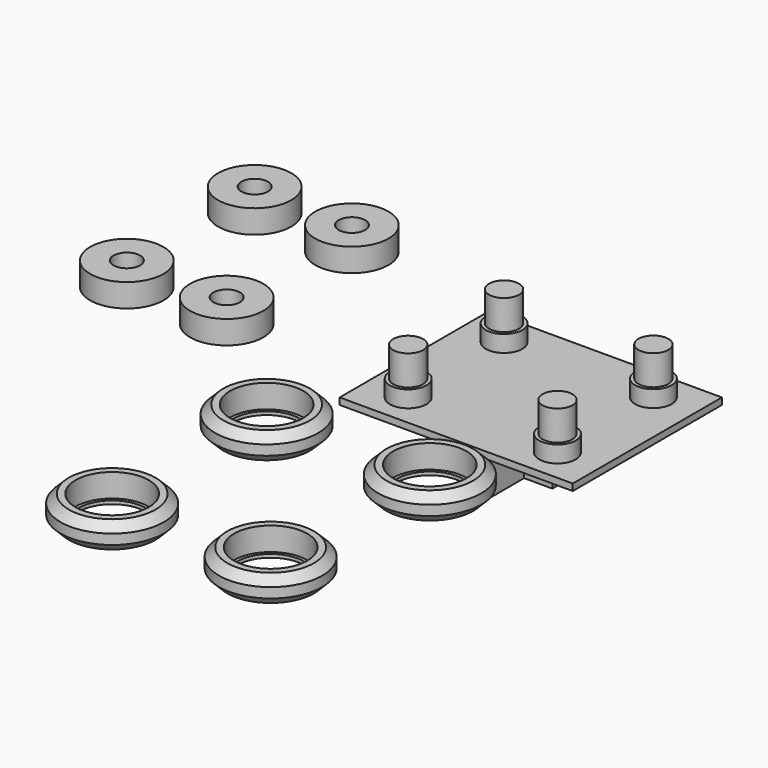
from build123d import *

# Parameters (mm, degrees)
F0_W      = 1
F0_H      = 1
F2_R      = 11
F2_R_2    = 4
F3_DEPTH  = 7
F4_W      = 70
F4_H      = 56
F5_DEPTH  = 2
F6_R      = 4.5
F7_DEPTH  = 14
F6_R_2    = 5.5
F8_DEPTH  = 5
F15_W     = 8.5
F15_H     = 15
F15_W_2   = 8
F15_H_2   = 12.5
F16_DEPTH = 15
F17_R     = 2.5
F18_DEPTH = 30
F19_DEPTH = 35
F20_DEPTH = 10
F21_W     = 3
F21_H     = 7
F21_H_2   = 8
F22_DEPTH = 7.5
F23_W     = 3
F23_H     = 5


with BuildPart() as f1:
    # F0 (on Right) → F1 (revolve)
    with BuildSketch(Plane.YZ):
        Polygon((0, 1), (0, 0), (2.0053988579, 0), (4.5, 2.4946011421), (4.5, 5.5), (2, 8), (0, 8), align=None)
        with Locations((-0.5, 0.5)):
            Rectangle(F0_W, F0_H)
    revolve(axis=Axis((0, -11, 2.9925003098), (0, 0, 1)))


with BuildPart() as f3:
    # F2 (on Top) → F3 (new body)
    with BuildSketch(Plane.XY):
        with Locations((-42.5073839724, 27.137408033)):
            Circle(F2_R)
        with Locations((-42.5073839724, 27.137408033)):
            Circle(F2_R_2, mode=Mode.SUBTRACT)
    extrude(amount=F3_DEPTH)


with BuildPart() as f5:
    # F4 (on Top) → F5 (new body)
    with BuildSketch(Plane.XY):
        with Locations((38.9257686788, 39.4921260625)):
            Rectangle(F4_W, F4_H)
    extrude(amount=F5_DEPTH)

    # F6 (on face) → F7 (join)
    with BuildSketch(Plane.XY.offset(2)):
        with Locations((61.3482686788, 21.4921260625)):
            Circle(F6_R)
        with Locations((16.5032686788, 21.4921260625)):
            Circle(F6_R)
        with Locations((16.5032686788, 57.4921260625)):
            Circle(F6_R)
        with Locations((61.3482686788, 57.4921260625)):
            Circle(F6_R)
    extrude(amount=F7_DEPTH)

    # F6 (on face) → F8 (join)
    with BuildSketch(Plane.XY.offset(2)):
        with Locations((61.3482686788, 21.4921260625)):
            Circle(F6_R_2)
        with Locations((61.3482686788, 21.4921260625)):
            Circle(F6_R, mode=Mode.SUBTRACT)
        with Locations((16.5032686788, 21.4921260625)):
            Circle(F6_R_2)
        with Locations((16.5032686788, 21.4921260625)):
            Circle(F6_R, mode=Mode.SUBTRACT)
        with Locations((61.3482686788, 57.4921260625)):
            Circle(F6_R_2)
        with Locations((61.3482686788, 57.4921260625)):
            Circle(F6_R, mode=Mode.SUBTRACT)
        with Locations((16.5032686788, 57.4921260625)):
            Circle(F6_R_2)
        with Locations((16.5032686788, 57.4921260625)):
            Circle(F6_R, mode=Mode.SUBTRACT)
    extrude(amount=F8_DEPTH)

    # F15 (on face) → F16 (join)
    with BuildSketch(Plane(origin=(0, 0, 0), x_dir=(1, 0, 0), z_dir=(0, 0, -1))):
        with Locations((30.6757686788, -39.4921260625)):
            Rectangle(F15_W, F15_H)
        with Locations((38.9257686788, -39.4921260625)):
            Rectangle(F15_W_2, F15_H)
        with Locations((47.1757686788, -39.4921260625)):
            Rectangle(F15_W, F15_H)
        with Locations((38.9257686788, -25.7421260625)):
            Rectangle(F15_W_2, F15_H_2)
        with Locations((38.9257686788, -53.2421260625)):
            Rectangle(F15_W_2, F15_H_2)
    extrude(amount=F16_DEPTH)

    # F17 (on face) → F18 (cut)
    with BuildSketch(Plane(origin=(26.4257686788, 0, 0), x_dir=(0, -1, 0), z_dir=(-1, 0, 0))):
        with Locations((-39.4921260625, -7.5)):
            Circle(F17_R)
    extrude(amount=-F18_DEPTH, mode=Mode.SUBTRACT)


with BuildPart() as f9_1:
    # F9: copy of F3
    add(f3.part.moved(Location((0, 47, 0))))


with BuildPart() as f10_1:
    # F10: copy of F3
    add(f3.part.moved(Location((-30, 0, 0))))


with BuildPart() as f11_1:
    # F11: copy of F10_1
    add(f10_1.part.moved(Location((0, 48, 0))))


with BuildPart() as f12_1:
    # F12: copy of F1
    add(f1.part.moved(Location((49, 0, 0))))


with BuildPart() as f13_1:
    # F13: copy of F1
    add(f1.part.moved(Location((46, -56, 0))))


with BuildPart() as f14_1:
    # F14: copy of F1
    add(f1.part.moved(Location((0, -58, 0))))


with BuildPart() as f19:
    # F17 (on face) → F19 (new body)
    with BuildSketch(Plane(origin=(26.4257686788, 0, 0), x_dir=(0, -1, 0), z_dir=(-1, 0, 0))):
        with Locations((-39.4921260625, -7.5)):
            Circle(F17_R)
    extrude(amount=-F19_DEPTH)

    # F17 (on face) → F20 (join)
    with BuildSketch(Plane(origin=(26.4257686788, 0, 0), x_dir=(0, -1, 0), z_dir=(-1, 0, 0))):
        with Locations((-39.4921260625, -7.5)):
            Circle(F17_R)
    extrude(amount=F20_DEPTH)

    # F21 (on face) → F22 (cut)
    with BuildSketch(Plane.XZ.offset(-31.9921260625)):
        with Locations((19.9257686788, -7.9346823551)):
            Rectangle(F21_W, F21_H)
        with Locations((57.9257686788, -8.1532352641)):
            Rectangle(F21_W, F21_H_2)
    extrude(amount=-F22_DEPTH, mode=Mode.SUBTRACT)

    # F23 (on face) → F24 (revolve)
    with BuildSketch(Plane.XZ.offset(-39.4921260625)):
        with Locations((19.9257686788, -7.5)):
            Rectangle(F23_W, F23_H)
        with BuildLine():
            Line((21.4257686788, -5), (21.4257686788, -3.5))
            ThreePointArc((21.4257686788, -3.5), (17.4257686788, -7.5), (21.4257686788, -11.5))
            Line((21.4257686788, -11.5), (21.4257686788, -10))
            Line((21.4257686788, -10), (18.4257686788, -10))
            Line((18.4257686788, -10), (18.4257686788, -5))
            Line((18.4257686788, -5), (21.4257686788, -5))
        make_face()
    revolve(axis=Axis((21.4257686788, 39.4921260625, -7.5), (0, 0, -1)))

    # F23 (on face) → F25 (revolve)
    with BuildSketch(Plane.XZ.offset(-39.4921260625)):
        with BuildLine():
            ThreePointArc((56.4257686788, -11.5), (59.2541958035, -10.3284271247), (60.4257686788, -7.5))
            ThreePointArc((60.4257686788, -7.5), (59.2541958035, -4.6715728753), (56.4257686788, -3.5))
            Line((56.4257686788, -3.5), (56.4257686788, -11.5))
        make_face()
    revolve(axis=Axis((56.4257686788, 39.4921260625, -7.5), (0, 0, -1)))


solid = Compound([f1.part, f3.part, f5.part, f9_1.part, f10_1.part, f11_1.part, f12_1.part, f13_1.part, f14_1.part, f19.part])
